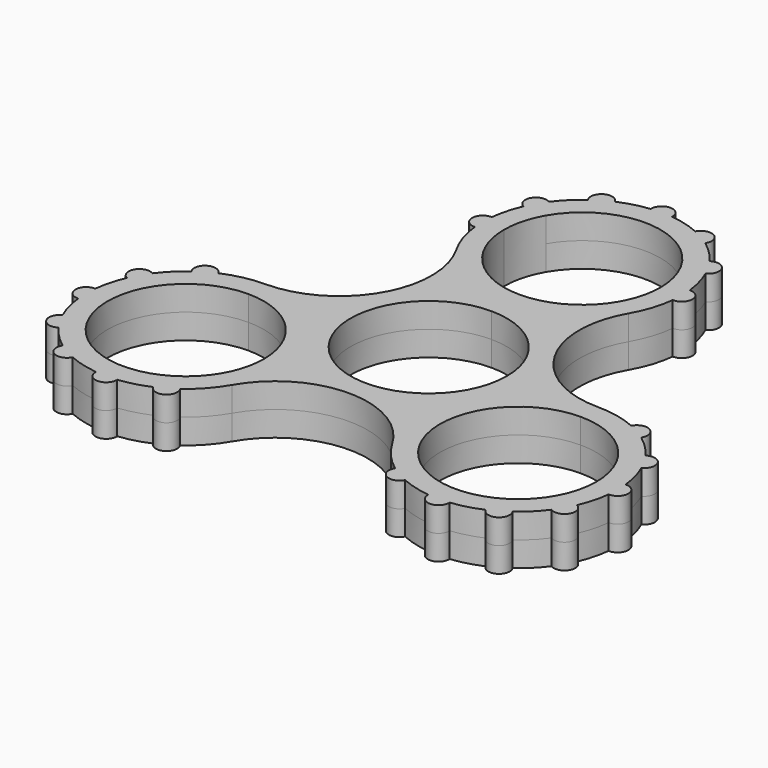
from build123d import *

# Parameters (mm, degrees)
F1_DEPTH = 3.5


with BuildPart() as f1:
    # F0 (on Top) → F1 (new body, symmetric)
    with BuildSketch(Plane.XY):
        with BuildLine():
            ThreePointArc((-13.9196428571, 28.49784603), (-13.97989628, 27.75), (-14, 27))
            Line((-14, 27), (-11, 27))
            ThreePointArc((-11, 27), (-10.6251840892, 29.8470094961), (-9.5262794416, 32.5))
            Line((-9.5262794416, 32.5), (-12.124355653, 34))
            ThreePointArc((-12.124355653, 34), (-12.4819453208, 33.3404290872), (-12.8036873409, 32.6626487156))
            ThreePointArc((-12.8036873409, 32.6626487156), (-13.522961568, 30.6234666314), (-13.9196428571, 28.49784603))
        make_face()
        with BuildLine():
            Line((9.5262794416, 21.5), (12.124355653, 20))
            ThreePointArc((12.124355653, 20), (13.3094285819, 22.6572922245), (13.9196428571, 25.50215397))
            ThreePointArc((13.9196428571, 25.50215397), (13.97989628, 26.25), (14, 27))
            ThreePointArc((14, 27), (13.97989628, 27.75), (13.9196428571, 28.49784603))
            ThreePointArc((13.9196428571, 28.49784603), (13.522961568, 30.6234666314), (12.8036873409, 32.6626487156))
            ThreePointArc((12.8036873409, 32.6626487156), (12.124355653, 34), (11.3058413109, 35.2569941415))
            ThreePointArc((11.3058413109, 35.2569941415), (9.8994949366, 36.8994949366), (8.2569941415, 38.3058413109))
            ThreePointArc((8.2569941415, 38.3058413109), (7, 39.124355653), (5.6626487156, 39.8036873409))
            ThreePointArc((5.6626487156, 39.8036873409), (3.6234666314, 40.522961568), (1.49784603, 40.9196428571))
            ThreePointArc((1.49784603, 40.9196428571), (0, 41), (-1.49784603, 40.9196428571))
            ThreePointArc((-1.49784603, 40.9196428571), (-3.6234666314, 40.522961568), (-5.6626487156, 39.8036873409))
            ThreePointArc((-5.6626487156, 39.8036873409), (-7, 39.124355653), (-8.2569941415, 38.3058413109))
            ThreePointArc((-8.2569941415, 38.3058413109), (-9.8994949366, 36.8994949366), (-11.3058413109, 35.2569941415))
            ThreePointArc((-11.3058413109, 35.2569941415), (-11.7319453208, 34.6394671928), (-12.124355653, 34))
            Line((-12.124355653, 34), (-9.5262794416, 32.5))
            ThreePointArc((-9.5262794416, 32.5), (2.8470094961, 37.6251840892), (11, 27))
            ThreePointArc((11, 27), (10.6251840892, 24.1529905039), (9.5262794416, 21.5))
        make_face()
        with BuildLine():
            ThreePointArc((-11.3058413109, 35.2569941415), (-13.4233937587, 34.75), (-12.8036873409, 32.6626487156))
            ThreePointArc((-12.8036873409, 32.6626487156), (-12.4819453208, 33.3404290872), (-12.124355653, 34))
            ThreePointArc((-12.124355653, 34), (-11.7319453208, 34.6394671928), (-11.3058413109, 35.2569941415))
        make_face()
        with BuildLine():
            ThreePointArc((-5.6626487156, 39.8036873409), (-7.75, 40.4233937587), (-8.2569941415, 38.3058413109))
            ThreePointArc((-8.2569941415, 38.3058413109), (-7, 39.124355653), (-5.6626487156, 39.8036873409))
        make_face()
        with BuildLine():
            ThreePointArc((1.49784603, 40.9196428571), (0, 42.5), (-1.49784603, 40.9196428571))
            ThreePointArc((-1.49784603, 40.9196428571), (0, 41), (1.49784603, 40.9196428571))
        make_face()
        with BuildLine():
            ThreePointArc((5.6626487156, 39.8036873409), (7, 39.124355653), (8.2569941415, 38.3058413109))
            ThreePointArc((8.2569941415, 38.3058413109), (7.75, 40.4233937587), (5.6626487156, 39.8036873409))
        make_face()
        with BuildLine():
            ThreePointArc((11.3058413109, 35.2569941415), (12.124355653, 34), (12.8036873409, 32.6626487156))
            ThreePointArc((12.8036873409, 32.6626487156), (13.4233937587, 34.75), (11.3058413109, 35.2569941415))
        make_face()
        with BuildLine():
            ThreePointArc((14, 27), (13.97989628, 26.25), (13.9196428571, 25.50215397))
            ThreePointArc((13.9196428571, 25.50215397), (15.5, 27), (13.9196428571, 28.49784603))
            ThreePointArc((13.9196428571, 28.49784603), (13.97989628, 27.75), (14, 27))
        make_face()
        with BuildLine():
            Line((0, 16), (0, 14))
            ThreePointArc((0, 14), (1.8708286934, 13.8744369255), (3.7080992435, 13.5))
            ThreePointArc((3.7080992435, 13.5), (8.5574036374, 15.919799506), (12.124355653, 20))
            Line((12.124355653, 20), (9.5262794416, 21.5))
            ThreePointArc((9.5262794416, 21.5), (5.5, 17.4737205584), (0, 16))
        make_face()
        with BuildLine():
            ThreePointArc((-3.7080992435, 13.5), (-1.8708286934, 13.1255630745), (0, 13))
            Line((0, 13), (0, 14))
            ThreePointArc((0, 14), (-1.8708286934, 13.8744369255), (-3.7080992435, 13.5))
        make_face()
        with BuildLine():
            Line((0, 14), (0, 13))
            ThreePointArc((0, 13), (1.8708286934, 13.1255630745), (3.7080992435, 13.5))
            ThreePointArc((3.7080992435, 13.5), (1.8708286934, 13.8744369255), (0, 14))
        make_face()
        with BuildLine():
            ThreePointArc((-3.7080992435, 13.5), (-1.8708286934, 13.8744369255), (0, 14))
            Line((0, 14), (0, 16))
            ThreePointArc((0, 16), (-5.5, 17.4737205584), (-9.5262794416, 21.5))
            Line((-9.5262794416, 21.5), (-12.124355653, 20))
            ThreePointArc((-12.124355653, 20), (-8.5574036374, 15.919799506), (-3.7080992435, 13.5))
        make_face()
        with BuildLine():
            ThreePointArc((-13.9196428571, 28.49784603), (-15.5, 27), (-13.9196428571, 25.50215397))
            ThreePointArc((-13.9196428571, 25.50215397), (-13.97989628, 26.25), (-14, 27))
            ThreePointArc((-14, 27), (-13.97989628, 27.75), (-13.9196428571, 28.49784603))
        make_face()
        with BuildLine():
            ThreePointArc((-12.124355653, 20), (-10.3826859022, 13.5), (-12.124355653, 7))
            ThreePointArc((-12.124355653, 7), (-8.5574036374, 11.080200494), (-3.7080992435, 13.5))
            ThreePointArc((-3.7080992435, 13.5), (-8.5574036374, 15.919799506), (-12.124355653, 20))
        make_face()
        with BuildLine():
            ThreePointArc((-9.5262794416, 5.5), (-5.5, 9.5262794416), (0, 11))
            Line((0, 11), (0, 13))
            ThreePointArc((0, 13), (-1.8708286934, 13.1255630745), (-3.7080992435, 13.5))
            ThreePointArc((-3.7080992435, 13.5), (-8.5574036374, 11.080200494), (-12.124355653, 7))
            Line((-12.124355653, 7), (-9.5262794416, 5.5))
        make_face()
        with BuildLine():
            ThreePointArc((0, 11), (7.7781745931, 7.7781745931), (11, 0))
            ThreePointArc((11, 0), (-2.8470094961, -10.6251840892), (-9.5262794416, 5.5))
            Line((-9.5262794416, 5.5), (-12.124355653, 7))
            ThreePointArc((-12.124355653, 7), (-13.8744369255, 1.8708286934), (-13.5453925729, -3.5386918553))
            ThreePointArc((-13.5453925729, -3.5386918553), (-11.2583302492, -6.5), (-9.8372933293, -9.9613081447))
            ThreePointArc((-9.8372933293, -9.9613081447), (-5.3170332882, -12.9510291874), (0, -14))
            ThreePointArc((0, -14), (5.3170332882, -12.9510291874), (9.8372933293, -9.9613081447))
            ThreePointArc((9.8372933293, -9.9613081447), (11.2583302492, -6.5), (13.5453925729, -3.5386918553))
            ThreePointArc((13.5453925729, -3.5386918553), (13.8858830475, -1.7838867649), (14, 0))
            ThreePointArc((14, 0), (13.5229615787, 3.6234665919), (12.1243556939, 6.999999929))
            ThreePointArc((12.1243556939, 6.999999929), (8.5574036698, 11.080200469), (3.7080992435, 13.5))
            ThreePointArc((3.7080992435, 13.5), (1.8708286934, 13.1255630745), (0, 13))
            Line((0, 13), (0, 11))
        make_face()
        with BuildLine():
            ThreePointArc((12.124355653, 20), (8.5574036374, 15.919799506), (3.7080992435, 13.5))
            ThreePointArc((3.7080992435, 13.5), (8.5574036698, 11.080200469), (12.1243556939, 6.999999929))
            ThreePointArc((12.1243556939, 6.999999929), (10.3826859022, 13.499999959), (12.124355653, 20))
        make_face()
        with BuildLine():
            ThreePointArc((23.3826859022, 0.5), (16.8826859377, 2.2416697303), (12.1243556939, 6.999999929))
            ThreePointArc((12.1243556939, 6.999999929), (13.5229615787, 3.6234665919), (14, 0))
            ThreePointArc((14, 0), (13.8858830475, -1.7838867649), (13.5453925729, -3.5386918553))
            ThreePointArc((13.5453925729, -3.5386918553), (18.065652614, -0.5489708126), (23.3826859022, 0.5))
        make_face()
        with BuildLine():
            ThreePointArc((9.8372933293, -9.9613081447), (12.124355653, -7), (13.5453925729, -3.5386918553))
            ThreePointArc((13.5453925729, -3.5386918553), (11.2583302492, -6.5), (9.8372933293, -9.9613081447))
        make_face()
        with BuildLine():
            Line((23.3826859022, -2.5), (23.3826859022, 0.5))
            ThreePointArc((23.3826859022, 0.5), (18.065652614, -0.5489708126), (13.5453925729, -3.5386918553))
            ThreePointArc((13.5453925729, -3.5386918553), (12.124355653, -7), (9.8372933293, -9.9613081447))
            ThreePointArc((9.8372933293, -9.9613081447), (9.5082489767, -15.3708286934), (11.2583302492, -20.5))
            Line((11.2583302492, -20.5), (13.8564064606, -19))
            ThreePointArc((13.8564064606, -19), (13.8564064606, -8), (23.3826859022, -2.5))
        make_face()
        with BuildLine():
            ThreePointArc((29.0453346178, -0.6963126591), (26.2765049383, 0.1976571495), (23.3826859022, 0.5))
            Line((23.3826859022, 0.5), (23.3826859022, -2.5))
            ThreePointArc((23.3826859022, -2.5), (31.1608604952, -5.7218254069), (34.3826859022, -13.5))
            ThreePointArc((34.3826859022, -13.5), (26.2296953983, -24.1251840892), (13.8564064606, -19))
            Line((13.8564064606, -19), (11.2583302492, -20.5))
            ThreePointArc((11.2583302492, -20.5), (12.9670763564, -22.854949374), (15.1256917607, -24.8058413109))
            ThreePointArc((15.1256917607, -24.8058413109), (16.3826859022, -25.624355653), (17.7200371865, -26.3036873409))
            ThreePointArc((17.7200371865, -26.3036873409), (19.7592192707, -27.022961568), (21.8848398722, -27.4196428571))
            ThreePointArc((21.8848398722, -27.4196428571), (23.3826859022, -27.5), (24.8805319322, -27.4196428571))
            ThreePointArc((24.8805319322, -27.4196428571), (27.0061525336, -27.022961568), (29.0453346178, -26.3036873409))
            ThreePointArc((29.0453346178, -26.3036873409), (30.3826859022, -25.624355653), (31.6396800437, -24.8058413109))
            ThreePointArc((31.6396800437, -24.8058413109), (33.2821808388, -23.3994949366), (34.6885272131, -21.7569941415))
            ThreePointArc((34.6885272131, -21.7569941415), (35.5070415552, -20.5), (36.1863732431, -19.1626487156))
            ThreePointArc((36.1863732431, -19.1626487156), (36.9056474702, -17.1234666314), (37.3023287593, -14.99784603))
            ThreePointArc((37.3023287593, -14.99784603), (37.3625821822, -14.25), (37.3826859022, -13.5))
            ThreePointArc((37.3826859022, -13.5), (37.3625821822, -12.75), (37.3023287593, -12.00215397))
            ThreePointArc((37.3023287593, -12.00215397), (36.9056474702, -9.8765333686), (36.1863732431, -7.8373512844))
            ThreePointArc((36.1863732431, -7.8373512844), (35.5070415552, -6.5), (34.6885272131, -5.2430058585))
            ThreePointArc((34.6885272131, -5.2430058585), (33.2821808388, -3.6005050634), (31.6396800437, -2.1941586891))
            ThreePointArc((31.6396800437, -2.1941586891), (30.3826859022, -1.375644347), (29.0453346178, -0.6963126591))
        make_face()
        with BuildLine():
            ThreePointArc((31.6396800437, -2.1941586891), (31.1326859022, -0.0766062413), (29.0453346178, -0.6963126591))
            ThreePointArc((29.0453346178, -0.6963126591), (30.3826859022, -1.375644347), (31.6396800437, -2.1941586891))
        make_face()
        with BuildLine():
            ThreePointArc((36.1863732431, -7.8373512844), (36.8060796608, -5.75), (34.6885272131, -5.2430058585))
            ThreePointArc((34.6885272131, -5.2430058585), (35.5070415552, -6.5), (36.1863732431, -7.8373512844))
        make_face()
        with BuildLine():
            ThreePointArc((37.3023287593, -14.99784603), (38.8826859022, -13.5), (37.3023287593, -12.00215397))
            ThreePointArc((37.3023287593, -12.00215397), (37.3625821822, -12.75), (37.3826859022, -13.5))
            ThreePointArc((37.3826859022, -13.5), (37.3625821822, -14.25), (37.3023287593, -14.99784603))
        make_face()
        with BuildLine():
            ThreePointArc((34.6885272131, -21.7569941415), (36.8060796608, -21.25), (36.1863732431, -19.1626487156))
            ThreePointArc((36.1863732431, -19.1626487156), (35.5070415552, -20.5), (34.6885272131, -21.7569941415))
        make_face()
        with BuildLine():
            ThreePointArc((31.6396800437, -24.8058413109), (30.3826859022, -25.624355653), (29.0453346178, -26.3036873409))
            ThreePointArc((29.0453346178, -26.3036873409), (31.1326859022, -26.9233937587), (31.6396800437, -24.8058413109))
        make_face()
        with BuildLine():
            ThreePointArc((24.8805319322, -27.4196428571), (23.3826859022, -27.5), (21.8848398722, -27.4196428571))
            ThreePointArc((21.8848398722, -27.4196428571), (23.3826859022, -29), (24.8805319322, -27.4196428571))
        make_face()
        with BuildLine():
            ThreePointArc((17.7200371865, -26.3036873409), (16.3826859022, -25.624355653), (15.1256917607, -24.8058413109))
            ThreePointArc((15.1256917607, -24.8058413109), (15.6326859022, -26.9233937587), (17.7200371865, -26.3036873409))
        make_face()
        with BuildLine():
            ThreePointArc((9.8372933293, -9.9613081447), (5.3170332882, -12.9510291874), (0, -14))
            ThreePointArc((0, -14), (6.5, -15.7416697508), (11.2583302492, -20.5))
            ThreePointArc((11.2583302492, -20.5), (9.5082489767, -15.3708286934), (9.8372933293, -9.9613081447))
        make_face()
        with BuildLine():
            ThreePointArc((0, -14), (-5.3170332882, -12.9510291874), (-9.8372933293, -9.9613081447))
            ThreePointArc((-9.8372933293, -9.9613081447), (-9.4968028546, -11.7161132351), (-9.3826859022, -13.5))
            ThreePointArc((-9.3826859022, -13.5), (-9.8597243341, -17.1234666314), (-11.2583302492, -20.5))
            ThreePointArc((-11.2583302492, -20.5), (-6.5, -15.7416697508), (0, -14))
        make_face()
        with BuildLine():
            ThreePointArc((-9.8372933293, -9.9613081447), (-11.2583302492, -6.5), (-13.5453925729, -3.5386918553))
            ThreePointArc((-13.5453925729, -3.5386918553), (-12.124355653, -7), (-9.8372933293, -9.9613081447))
        make_face()
        with BuildLine():
            ThreePointArc((-13.5453925729, -3.5386918553), (-13.8744369255, 1.8708286934), (-12.124355653, 7))
            ThreePointArc((-12.124355653, 7), (-16.8826859022, 2.2416697508), (-23.3826859022, 0.5))
            ThreePointArc((-23.3826859022, 0.5), (-18.065652614, -0.5489708126), (-13.5453925729, -3.5386918553))
        make_face()
        with BuildLine():
            ThreePointArc((-9.8372933293, -9.9613081447), (-12.124355653, -7), (-13.5453925729, -3.5386918553))
            ThreePointArc((-13.5453925729, -3.5386918553), (-18.065652614, -0.5489708126), (-23.3826859022, 0.5))
            Line((-23.3826859022, 0.5), (-23.3826859022, -2.5))
            ThreePointArc((-23.3826859022, -2.5), (-15.6045113091, -5.7218254069), (-12.3826859022, -13.5))
            ThreePointArc((-12.3826859022, -13.5), (-12.757501813, -16.3470094961), (-13.8564064606, -19))
            Line((-13.8564064606, -19), (-11.2583302492, -20.5))
            ThreePointArc((-11.2583302492, -20.5), (-9.8597243341, -17.1234666314), (-9.3826859022, -13.5))
            ThreePointArc((-9.3826859022, -13.5), (-9.4968028546, -11.7161132351), (-9.8372933293, -9.9613081447))
        make_face()
        with BuildLine():
            Line((-23.3826859022, -2.5), (-23.3826859022, 0.5))
            ThreePointArc((-23.3826859022, 0.5), (-26.2765049383, 0.1976571495), (-29.0453346178, -0.6963126591))
            ThreePointArc((-29.0453346178, -0.6963126591), (-30.3826859022, -1.375644347), (-31.6396800437, -2.1941586891))
            ThreePointArc((-31.6396800437, -2.1941586891), (-33.2821808388, -3.6005050634), (-34.6885272131, -5.2430058585))
            ThreePointArc((-34.6885272131, -5.2430058585), (-35.5070415552, -6.5), (-36.1863732431, -7.8373512844))
            ThreePointArc((-36.1863732431, -7.8373512844), (-36.9056474702, -9.8765333686), (-37.3023287593, -12.00215397))
            ThreePointArc((-37.3023287593, -12.00215397), (-37.3826859022, -13.5), (-37.3023287593, -14.99784603))
            ThreePointArc((-37.3023287593, -14.99784603), (-36.9056474702, -17.1234666314), (-36.1863732431, -19.1626487156))
            ThreePointArc((-36.1863732431, -19.1626487156), (-35.5070415552, -20.5), (-34.6885272131, -21.7569941415))
            ThreePointArc((-34.6885272131, -21.7569941415), (-33.2821808388, -23.3994949366), (-31.6396800437, -24.8058413109))
            ThreePointArc((-31.6396800437, -24.8058413109), (-30.3826859022, -25.624355653), (-29.0453346178, -26.3036873409))
            ThreePointArc((-29.0453346178, -26.3036873409), (-27.0061525336, -27.022961568), (-24.8805319322, -27.4196428571))
            ThreePointArc((-24.8805319322, -27.4196428571), (-23.3826859022, -27.5), (-21.8848398722, -27.4196428571))
            ThreePointArc((-21.8848398722, -27.4196428571), (-19.7592192707, -27.022961568), (-17.7200371865, -26.3036873409))
            ThreePointArc((-17.7200371865, -26.3036873409), (-16.3826859022, -25.624355653), (-15.1256917607, -24.8058413109))
            ThreePointArc((-15.1256917607, -24.8058413109), (-12.9670763564, -22.854949374), (-11.2583302492, -20.5))
            Line((-11.2583302492, -20.5), (-13.8564064606, -19))
            ThreePointArc((-13.8564064606, -19), (-32.9089653438, -19), (-23.3826859022, -2.5))
        make_face()
        with BuildLine():
            ThreePointArc((-31.6396800437, -2.1941586891), (-30.3826859022, -1.375644347), (-29.0453346178, -0.6963126591))
            ThreePointArc((-29.0453346178, -0.6963126591), (-31.1326859022, -0.0766062413), (-31.6396800437, -2.1941586891))
        make_face()
        with BuildLine():
            ThreePointArc((-36.1863732431, -7.8373512844), (-35.5070415552, -6.5), (-34.6885272131, -5.2430058585))
            ThreePointArc((-34.6885272131, -5.2430058585), (-36.8060796608, -5.75), (-36.1863732431, -7.8373512844))
        make_face()
        with BuildLine():
            ThreePointArc((-37.3023287593, -14.99784603), (-37.3826859022, -13.5), (-37.3023287593, -12.00215397))
            ThreePointArc((-37.3023287593, -12.00215397), (-38.8826859022, -13.5), (-37.3023287593, -14.99784603))
        make_face()
        with BuildLine():
            ThreePointArc((-34.6885272131, -21.7569941415), (-35.5070415552, -20.5), (-36.1863732431, -19.1626487156))
            ThreePointArc((-36.1863732431, -19.1626487156), (-36.8060796608, -21.25), (-34.6885272131, -21.7569941415))
        make_face()
        with BuildLine():
            ThreePointArc((-31.6396800437, -24.8058413109), (-31.1326859022, -26.9233937587), (-29.0453346178, -26.3036873409))
            ThreePointArc((-29.0453346178, -26.3036873409), (-30.3826859022, -25.624355653), (-31.6396800437, -24.8058413109))
        make_face()
        with BuildLine():
            ThreePointArc((-24.8805319322, -27.4196428571), (-23.3826859022, -29), (-21.8848398722, -27.4196428571))
            ThreePointArc((-21.8848398722, -27.4196428571), (-23.3826859022, -27.5), (-24.8805319322, -27.4196428571))
        make_face()
        with BuildLine():
            ThreePointArc((-17.7200371865, -26.3036873409), (-15.6326859022, -26.9233937587), (-15.1256917607, -24.8058413109))
            ThreePointArc((-15.1256917607, -24.8058413109), (-16.3826859022, -25.624355653), (-17.7200371865, -26.3036873409))
        make_face()
        with BuildLine():
            ThreePointArc((-13.9196428571, 25.50215397), (-13.3094285819, 22.6572922245), (-12.124355653, 20))
            Line((-12.124355653, 20), (-9.5262794416, 21.5))
            ThreePointArc((-9.5262794416, 21.5), (-10.6251840892, 24.1529905039), (-11, 27))
            Line((-11, 27), (-14, 27))
            ThreePointArc((-14, 27), (-13.97989628, 26.25), (-13.9196428571, 25.50215397))
        make_face()
    extrude(amount=F1_DEPTH, both=True)


solid = f1.part
